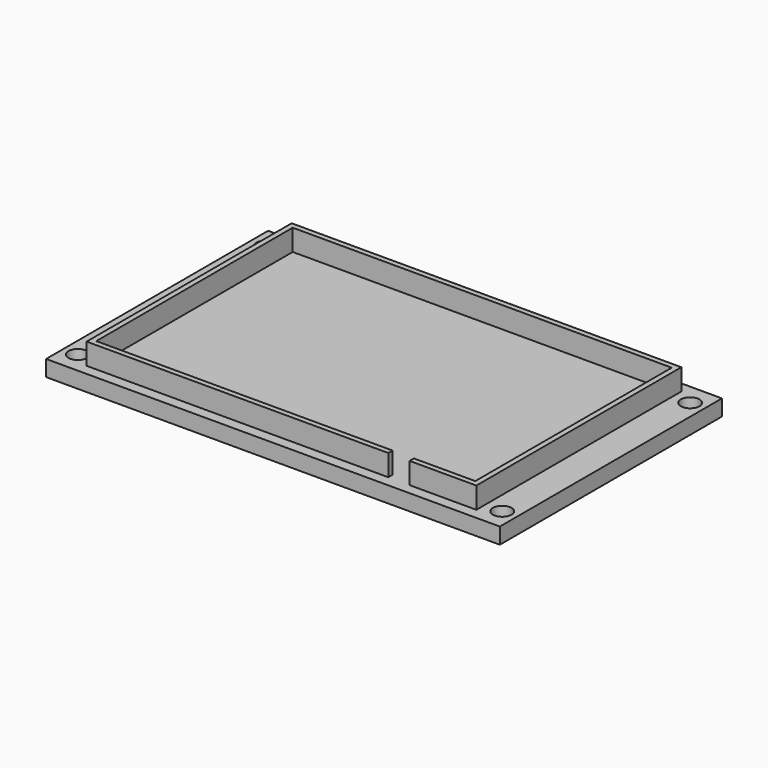
from build123d import *

# Parameters (mm, degrees)
F0_W     = 85
F0_H     = 52
F1_DEPTH = 3
F2_R     = 1.75
F3_DEPTH = 25
F4_W     = 73
F4_H     = 48
F4_W_2   = 71
F4_H_2   = 46
F5_DEPTH = 4
F6_W     = 4
F6_H     = 1
F7_DEPTH = 4


with BuildPart() as f1:
    # F0 (on Top) → F1 (new body)
    with BuildSketch(Plane.XY):
        Rectangle(F0_W, F0_H)
    extrude(amount=F1_DEPTH)

    # F2 (on face) → F3 (cut)
    with BuildSketch(Plane.XY.offset(3)):
        with Locations((-39.75, 22)):
            Circle(F2_R)
        with Locations((-39.75, -22)):
            Circle(F2_R)
        with Locations((39.75, 22)):
            Circle(F2_R)
        with Locations((39.75, -22)):
            Circle(F2_R)
    extrude(amount=-F3_DEPTH, mode=Mode.SUBTRACT)

    # F4 (on face) → F5 (join)
    with BuildSketch(Plane.XY.offset(3)):
        Rectangle(F4_W, F4_H)
        Rectangle(F4_W_2, F4_H_2, mode=Mode.SUBTRACT)
    extrude(amount=F5_DEPTH)

    # F6 (on face) → F7 (cut)
    with BuildSketch(Plane.XY.offset(7)):
        with Locations((22, -23.5)):
            Rectangle(F6_W, F6_H)
    extrude(amount=-F7_DEPTH, mode=Mode.SUBTRACT)


solid = f1.part
